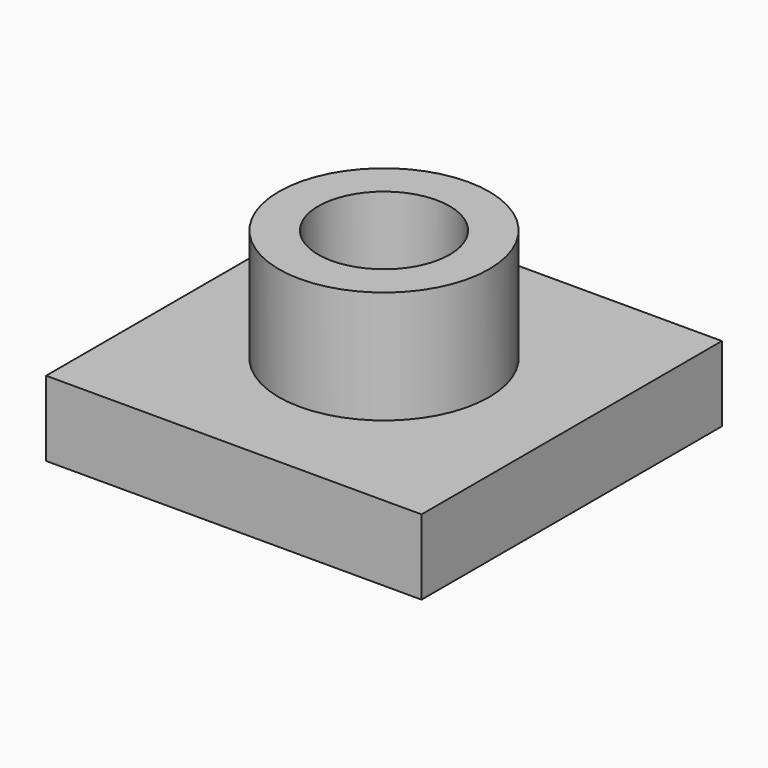
from build123d import *

# Parameters (mm, degrees)
SKETCH_R        = 2.8
PAD_DEPTH       = 3
SKETCH001_R     = 1.75
POCKET_DEPTH    = 4
SKETCH002_W     = 10
SKETCH002_H     = 10
PAD001_DEPTH    = 2
SKETCH003_R     = 1.75
POCKET001_DEPTH = 5


with BuildPart() as part:
    # Sketch → Pad (new body)
    with BuildSketch(Plane.XY):
        Circle(SKETCH_R)
    extrude(amount=PAD_DEPTH)

    # Sketch001 (on Face3 of Pad) → Pocket (cut)
    with BuildSketch(Plane.XY.offset(3)):
        Circle(SKETCH001_R)
    extrude(amount=-POCKET_DEPTH, mode=Mode.SUBTRACT)

    # Sketch002 (on Face2 of Pocket) → Pad001 (join)
    with BuildSketch(Plane(origin=(0, 0, 0), x_dir=(1, 0, 0), z_dir=(0, 0, -1))):
        Rectangle(SKETCH002_W, SKETCH002_H)
    extrude(amount=PAD001_DEPTH)

    # Sketch003 (on Face10 of Pad001) → Pocket001 (cut)
    with BuildSketch(Plane.XY):
        Circle(SKETCH003_R)
    extrude(amount=-POCKET001_DEPTH, mode=Mode.SUBTRACT)


solid = part.part
